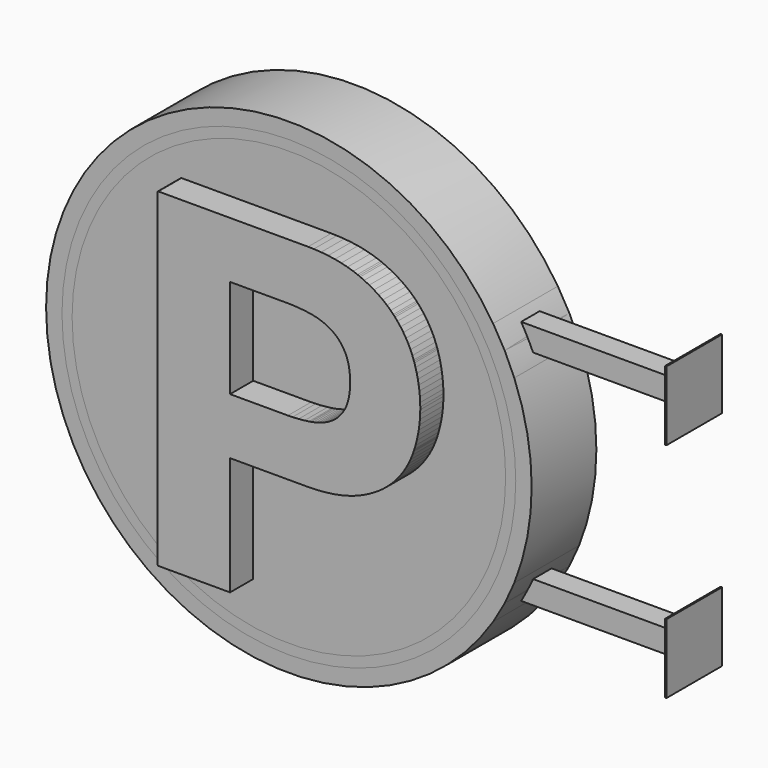
from build123d import *

# Parameters (mm, degrees)
F0_R           = 1066.8
F1_DEPTH       = 355.6
F2_W           = 101.6
F2_H           = 101.6
F3_DEPTH       = 1600.2
F4_W           = 304.8
F4_H           = 304.8
F5_DEPTH       = 6.35
F7_T           = -2.54
F6_R           = 1066.8
F6_R_2         = 996.95
F8_DEPTH       = 355.6
F6_R_3         = 952.5
F9_DEPTH       = 355.6
F10_DEPTH      = 355.6
F12_DEPTH      = 177.8
F14_DEPTH      = 177.8
F15_W          = 2177.1864
F15_H          = 50.8
F15_W_2        = 2169.7696
F16_DEPTH      = 1039.3653768907
F16_DEPTH_BACK = 1094.2366231093
F17_R          = 19.05
F18_DEPTH      = 50.8
F19_R          = 19.05
F20_DEPTH      = 50.8


with BuildPart() as f1:
    # F0 (on Front) → F1 (new body)
    with BuildSketch(Plane.XZ):
        with Locations((-32.1771800518, 27.4356231093)):
            Circle(F0_R)
    extrude(amount=-F1_DEPTH)

    # F2 (on Right) → F3 (join)
    with BuildSketch(Plane.YZ):
        with Locations((176.4581170305, 516.3856603622)):
            Rectangle(F2_W, F2_H)
        with Locations((176.4581170305, -461.5143396378)):
            Rectangle(F2_W, F2_H)
    extrude(amount=F3_DEPTH)

    # F4 (on face) → F5 (join)
    with BuildSketch(Plane.YZ.offset(1600.2)):
        with Locations((177.8, 516.3856603622)):
            Rectangle(F4_W, F4_H)
        with Locations((177.8, -461.5143396378)):
            Rectangle(F4_W, F4_H)
    extrude(amount=F5_DEPTH)

    # F7
    f7_openings = [f1.faces().sort_by_distance(p)[0] for p in [
        (-32.17718, 355.6, 27.435623),
        (-32.17718, 0, 27.435623),
    ]]
    offset(amount=F7_T, openings=f7_openings, kind=Kind.INTERSECTION)


with BuildPart() as f8:
    # F6 (on face) → F8 (new body)
    with BuildSketch(Plane(origin=(0, 355.6, 0), x_dir=(-1, 0, 0), z_dir=(0, 1, 0))):
        with Locations((32.1771800518, 27.4356231093)):
            Circle(F6_R)
        with Locations((32.1771800518, 27.4356231093)):
            Circle(F6_R_2, mode=Mode.SUBTRACT)
    extrude(amount=-F8_DEPTH)


with BuildPart() as f9:
    # F6 (on face) → F9 (new body)
    with BuildSketch(Plane(origin=(0, 355.6, 0), x_dir=(-1, 0, 0), z_dir=(0, 1, 0))):
        with Locations((32.1771800518, 27.4356231093)):
            Circle(F6_R_2)
        with Locations((32.1771800518, 27.4356231093)):
            Circle(F6_R_3, mode=Mode.SUBTRACT)
    extrude(amount=-F9_DEPTH)


with BuildPart() as f10:
    # F6 (on face) → F10 (new body)
    with BuildSketch(Plane(origin=(0, 355.6, 0), x_dir=(-1, 0, 0), z_dir=(0, 1, 0))):
        with Locations((32.1771800518, 27.4356231093)):
            Circle(F6_R_3)
    extrude(amount=-F10_DEPTH)


with BuildPart() as f12:
    # F11 (on face) → F12 (new body)
    with BuildSketch(Plane(origin=(0, 355.6, 0), x_dir=(-1, 0, 0), z_dir=(0, 1, 0))):
        with BuildLine():
            Line((261.0398864211, 749.6935208507), (252.7036064211, 749.6935208507))
            Line((252.7036064211, 749.6935208507), (-397.6817435459, 749.6935208507))
            ThreePointArc((-397.6817435459, 749.6935208507), (-399.1221131649, 748.8353613634), (-400.5607715789, 747.974336211))
            Line((-400.5607715789, 747.974336211), (-400.5607715789, -696.5317205232))
            ThreePointArc((-400.5607715789, -696.5317205232), (-398.6099594906, -697.6983275105), (-396.6560060392, -698.8596653493))
            Line((-396.6560060392, -698.8596653493), (-82.0429935789, -698.8596653493))
            Line((-82.0429935789, -698.8596653493), (-82.0429935789, -179.4918191493))
            Line((-82.0429935789, -179.4918191493), (252.7036064211, -179.4918191493))
            Line((252.7036064211, -179.4918191493), (261.0398864211, -179.4918191493))
            Line((261.0398864211, -179.4918191493), (286.0436464211, -178.8720591493))
            Line((286.0436464211, -178.8720591493), (318.1187664211, -177.0178591493))
            Line((318.1187664211, -177.0178591493), (348.9315064211, -173.9266791493))
            Line((348.9315064211, -173.9266791493), (378.4767864211, -169.5985191493))
            Line((378.4767864211, -169.5985191493), (406.7520664211, -164.0359191493))
            Line((406.7520664211, -164.0359191493), (433.7598864211, -157.2363391493))
            Line((433.7598864211, -157.2363391493), (459.5053264211, -149.2023191493))
            Line((459.5053264211, -149.2023191493), (477.9406464211, -142.4382991493))
            Line((477.9406464211, -142.4382991493), (483.9858464211, -139.9313191493))
            Line((483.9858464211, -139.9313191493), (489.8583264211, -137.4929191493))
            Line((489.8583264211, -137.4929191493), (507.2649464211, -129.6443191493))
            Line((507.2649464211, -129.6443191493), (529.4366064211, -118.5648391493))
            Line((529.4366064211, -118.5648391493), (550.5008264211, -106.6979591493))
            Line((550.5008264211, -106.6979591493), (570.4550664211, -94.0335191493))
            Line((570.4550664211, -94.0335191493), (589.2993264211, -80.5791391493))
            Line((589.2993264211, -80.5791391493), (607.0361464211, -66.3297391493))
            Line((607.0361464211, -66.3297391493), (623.6680664211, -51.2853191493))
            Line((623.6680664211, -51.2853191493), (635.4333464211, -39.5200391493))
            Line((635.4333464211, -39.5200391493), (639.1900064211, -35.4433391493))
            Line((639.1900064211, -35.4433391493), (642.9034864211, -31.4123591493))
            Line((642.9034864211, -31.4123591493), (653.6349864211, -18.9180991493))
            Line((653.6349864211, -18.9180991493), (667.0741264211, -1.7857991493))
            Line((667.0741264211, -1.7857991493), (679.5023464211, 15.9484808507))
            Line((679.5023464211, 15.9484808507), (690.9145664211, 34.2847408507))
            Line((690.9145664211, 34.2847408507), (701.3133264211, 53.2255208507))
            Line((701.3133264211, 53.2255208507), (710.6960864211, 72.7708208507))
            Line((710.6960864211, 72.7708208507), (719.0679264211, 92.9181008507))
            Line((719.0679264211, 92.9181008507), (724.7194264211, 108.4400408507))
            Line((724.7194264211, 108.4400408507), (726.4237664211, 113.6724408507))
            Line((726.4237664211, 113.6724408507), (728.1281064211, 118.9099208507))
            Line((728.1281064211, 118.9099208507), (732.8448864211, 134.7595208507))
            Line((732.8448864211, 134.7595208507), (738.4074864211, 155.9482008507))
            Line((738.4074864211, 155.9482008507), (743.1141064211, 177.2308608507))
            Line((743.1141064211, 177.2308608507), (746.9672864211, 198.6125808507))
            Line((746.9672864211, 198.6125808507), (749.9619464211, 220.0933608507))
            Line((749.9619464211, 220.0933608507), (752.1031664211, 241.6655808507))
            Line((752.1031664211, 241.6655808507), (753.3833264211, 263.3343208507))
            Line((753.3833264211, 263.3343208507), (753.8125864211, 279.6614408507))
            Line((753.8125864211, 279.6614408507), (753.8125864211, 285.0995808507))
            Line((753.8125864211, 285.0995808507), (753.8125864211, 290.6520208507))
            Line((753.8125864211, 290.6520208507), (753.3833264211, 307.3169608507))
            Line((753.3833264211, 307.3169608507), (752.1031664211, 329.3463808507))
            Line((752.1031664211, 329.3463808507), (749.9619464211, 351.1853008507))
            Line((749.9619464211, 351.1853008507), (746.9672864211, 372.8311808507))
            Line((746.9672864211, 372.8311808507), (743.1141064211, 394.2941808507))
            Line((743.1141064211, 394.2941808507), (738.4074864211, 415.5641408507))
            Line((738.4074864211, 415.5641408507), (732.8448864211, 436.6486808507))
            Line((732.8448864211, 436.6486808507), (728.1306464211, 452.3560408507))
            Line((728.1306464211, 452.3560408507), (726.4237664211, 457.5452608507))
            Line((726.4237664211, 457.5452608507), (724.7194264211, 462.7167008507))
            Line((724.7194264211, 462.7167008507), (719.0679264211, 478.0506808507))
            Line((719.0679264211, 478.0506808507), (710.6960864211, 497.9871408507))
            Line((710.6960864211, 497.9871408507), (701.3133264211, 517.3546408507))
            Line((701.3133264211, 517.3546408507), (690.9145664211, 536.1506408507))
            Line((690.9145664211, 536.1506408507), (679.5023464211, 554.3776808507))
            Line((679.5023464211, 554.3776808507), (667.0741264211, 572.0357608507))
            Line((667.0741264211, 572.0357608507), (653.6349864211, 589.1274208507))
            Line((653.6349864211, 589.1274208507), (642.9034864211, 601.6166008507))
            Line((642.9034864211, 601.6166008507), (639.1900064211, 605.6475808507))
            Line((639.1900064211, 605.6475808507), (635.4333464211, 609.7192008507))
            Line((635.4333464211, 609.7192008507), (623.6680664211, 621.4768608507))
            Line((623.6680664211, 621.4768608507), (607.0361464211, 636.5187408507))
            Line((607.0361464211, 636.5187408507), (589.2993264211, 650.7681408507))
            Line((589.2993264211, 650.7681408507), (570.4550664211, 664.2276008507))
            Line((570.4550664211, 664.2276008507), (550.5008264211, 676.8920408507))
            Line((550.5008264211, 676.8920408507), (529.4366064211, 688.7614608507))
            Line((529.4366064211, 688.7614608507), (507.2649464211, 699.8460208507))
            Line((507.2649464211, 699.8460208507), (489.8583264211, 707.6971608507))
            Line((489.8583264211, 707.6971608507), (483.9858464211, 710.1330208507))
            Line((483.9858464211, 710.1330208507), (477.9406464211, 712.6374608507))
            Line((477.9406464211, 712.6374608507), (459.5053264211, 719.4040208507))
            Line((459.5053264211, 719.4040208507), (433.7598864211, 727.4405808507))
            Line((433.7598864211, 727.4405808507), (406.7520664211, 734.2427008507))
            Line((406.7520664211, 734.2427008507), (378.4767864211, 739.8027608507))
            Line((378.4767864211, 739.8027608507), (348.9315064211, 744.1309208507))
            Line((348.9315064211, 744.1309208507), (318.1187664211, 747.2221008507))
            Line((318.1187664211, 747.2221008507), (286.0436464211, 749.0763008507))
            Line((286.0436464211, 749.0763008507), (261.0398864211, 749.6935208507))
        make_face()
        Polygon((172.2491064211, 68.0261008507), (165.4698464211, 68.0261008507), (-82.0429935789, 68.0261008507), (-82.0429935789, 502.1806808507), (165.4698464211, 502.1806808507), (172.2491064211, 502.1806808507), (192.6021264211, 501.6726808507), (219.2238664211, 500.1461408507), (245.3452264211, 497.6061408507), (264.5806464211, 495.0813808507), (270.9662064211, 494.0603008507), (274.0954864211, 493.5599208507), (283.4477664211, 491.7920808507), (295.5508664211, 489.0488808507), (307.2780464211, 485.8281608507), (318.6267664211, 482.1324608507), (329.5995664211, 477.9668608507), (340.1862864211, 473.3237408507), (350.3996264211, 468.2081808507), (357.8113464211, 464.0857608507), (360.2294264211, 462.6201808507), (362.6246464211, 461.1723808507), (369.6248864211, 456.4860808507), (378.5428264211, 449.7449208507), (386.9883264211, 442.4068608507), (394.9613864211, 434.4693608507), (402.4620064211, 425.9248008507), (409.4851064211, 416.7808008507), (416.0357664211, 407.0348208507), (420.6712664211, 399.3157608507), (422.1114464211, 396.6843208507), (423.5897264211, 393.9817608507), (427.5724464211, 385.6200808507), (432.3070064211, 373.7328808507), (436.3176664211, 361.0151008507), (439.5993464211, 347.4794408507), (442.1520464211, 333.1157408507), (443.9757664211, 317.9341608507), (445.0730464211, 301.9270808507), (445.4413464211, 289.3058208507), (445.4413464211, 285.0995808507), (445.4413464211, 280.8908008507), (445.0730464211, 268.2644608507), (443.9757664211, 252.2573808507), (442.1520464211, 237.0732608507), (439.5993464211, 222.7121008507), (436.3176664211, 209.1789808507), (432.3070064211, 196.4688208507), (427.5724464211, 184.5790808507), (423.5897264211, 176.2224808507), (422.1114464211, 173.5173808507), (420.6712664211, 170.8834008507), (416.0357664211, 163.1668808507), (409.4851064211, 153.4183608507), (402.4620064211, 144.2718208507), (394.9613864211, 135.7272608507), (386.9883264211, 127.7846808507), (378.5428264211, 120.4440808507), (369.6248864211, 113.7130808507), (362.6246464211, 109.0344008507), (360.2294264211, 107.5866008507), (357.8113464211, 106.1210208507), (350.3996264211, 101.9859008507), (340.1862864211, 96.8601808507), (329.5995664211, 92.2145208507), (318.6267664211, 88.0463808507), (307.2780464211, 84.3506808507), (295.5508664211, 81.1350408507), (283.4477664211, 78.3969208507), (274.0954864211, 76.6367008507), (270.9662064211, 76.1388608507), (264.5806464211, 75.1152408507), (245.3452264211, 72.5828608507), (219.2238664211, 70.0504808507), (192.6021264211, 68.5290208507), align=None, mode=Mode.SUBTRACT)
    extrude(amount=F12_DEPTH)


with BuildPart() as f14:
    # F13 (on face) → F14 (new body)
    with BuildSketch(Plane.XZ):
        with BuildLine():
            Line((194.7979516964, 755.5110763196), (186.4616716964, 755.5110763196))
            Line((186.4616716964, 755.5110763196), (-463.9236782706, 755.5110763196))
            ThreePointArc((-463.9236782706, 755.5110763196), (-465.3640478896, 754.6529168323), (-466.8027063036, 753.79189168))
            Line((-466.8027063036, 753.79189168), (-466.8027063036, -690.7141650542))
            ThreePointArc((-466.8027063036, -690.7141650542), (-464.8518942154, -691.8807720415), (-462.8979407639, -693.0421098804))
            Line((-462.8979407639, -693.0421098804), (-148.2849283036, -693.0421098804))
            Line((-148.2849283036, -693.0421098804), (-148.2849283036, -173.6742636804))
            Line((-148.2849283036, -173.6742636804), (186.4616716964, -173.6742636804))
            Line((186.4616716964, -173.6742636804), (194.7979516964, -173.6742636804))
            Line((194.7979516964, -173.6742636804), (219.8017116964, -173.0545036804))
            Line((219.8017116964, -173.0545036804), (251.8768316964, -171.2003036804))
            Line((251.8768316964, -171.2003036804), (282.6895716964, -168.1091236804))
            Line((282.6895716964, -168.1091236804), (312.2348516964, -163.7809636804))
            Line((312.2348516964, -163.7809636804), (340.5101316964, -158.2183636804))
            Line((340.5101316964, -158.2183636804), (367.5179516964, -151.4187836804))
            Line((367.5179516964, -151.4187836804), (393.2633916964, -143.3847636804))
            Line((393.2633916964, -143.3847636804), (411.6987116964, -136.6207436804))
            Line((411.6987116964, -136.6207436804), (417.7439116964, -134.1137636804))
            Line((417.7439116964, -134.1137636804), (423.6163916964, -131.6753636804))
            Line((423.6163916964, -131.6753636804), (441.0230116964, -123.8267636804))
            Line((441.0230116964, -123.8267636804), (463.1946716964, -112.7472836804))
            Line((463.1946716964, -112.7472836804), (484.2588916964, -100.8804036804))
            Line((484.2588916964, -100.8804036804), (504.2131316964, -88.2159636804))
            Line((504.2131316964, -88.2159636804), (523.0573916964, -74.7615836804))
            Line((523.0573916964, -74.7615836804), (540.7942116964, -60.5121836804))
            Line((540.7942116964, -60.5121836804), (557.4261316964, -45.4677636804))
            Line((557.4261316964, -45.4677636804), (569.1914116964, -33.7024836804))
            Line((569.1914116964, -33.7024836804), (572.9480716964, -29.6257836804))
            Line((572.9480716964, -29.6257836804), (576.6615516964, -25.5948036804))
            Line((576.6615516964, -25.5948036804), (587.3930516964, -13.1005436804))
            Line((587.3930516964, -13.1005436804), (600.8321916964, 4.0317563196))
            Line((600.8321916964, 4.0317563196), (613.2604116964, 21.7660363196))
            Line((613.2604116964, 21.7660363196), (624.6726316964, 40.1022963196))
            Line((624.6726316964, 40.1022963196), (635.0713916964, 59.0430763196))
            Line((635.0713916964, 59.0430763196), (644.4541516964, 78.5883763196))
            Line((644.4541516964, 78.5883763196), (652.8259916964, 98.7356563196))
            Line((652.8259916964, 98.7356563196), (658.4774916964, 114.2575963196))
            Line((658.4774916964, 114.2575963196), (660.1818316964, 119.4899963196))
            Line((660.1818316964, 119.4899963196), (661.8861716964, 124.7274763196))
            Line((661.8861716964, 124.7274763196), (666.6029516964, 140.5770763196))
            Line((666.6029516964, 140.5770763196), (672.1655516964, 161.7657563196))
            Line((672.1655516964, 161.7657563196), (676.8721716964, 183.0484163196))
            Line((676.8721716964, 183.0484163196), (680.7253516964, 204.4301363196))
            Line((680.7253516964, 204.4301363196), (683.7200116964, 225.9109163196))
            Line((683.7200116964, 225.9109163196), (685.8612316964, 247.4831363196))
            Line((685.8612316964, 247.4831363196), (687.1413916964, 269.1518763196))
            Line((687.1413916964, 269.1518763196), (687.5706516964, 285.4789963196))
            Line((687.5706516964, 285.4789963196), (687.5706516964, 290.9171363196))
            Line((687.5706516964, 290.9171363196), (687.5706516964, 296.4695763196))
            Line((687.5706516964, 296.4695763196), (687.1413916964, 313.1345163196))
            Line((687.1413916964, 313.1345163196), (685.8612316964, 335.1639363196))
            Line((685.8612316964, 335.1639363196), (683.7200116964, 357.0028563196))
            Line((683.7200116964, 357.0028563196), (680.7253516964, 378.6487363196))
            Line((680.7253516964, 378.6487363196), (676.8721716964, 400.1117363196))
            Line((676.8721716964, 400.1117363196), (672.1655516964, 421.3816963196))
            Line((672.1655516964, 421.3816963196), (666.6029516964, 442.4662363196))
            Line((666.6029516964, 442.4662363196), (661.8887116964, 458.1735963196))
            Line((661.8887116964, 458.1735963196), (660.1818316964, 463.3628163196))
            Line((660.1818316964, 463.3628163196), (658.4774916964, 468.5342563196))
            Line((658.4774916964, 468.5342563196), (652.8259916964, 483.8682363196))
            Line((652.8259916964, 483.8682363196), (644.4541516964, 503.8046963196))
            Line((644.4541516964, 503.8046963196), (635.0713916964, 523.1721963196))
            Line((635.0713916964, 523.1721963196), (624.6726316964, 541.9681963196))
            Line((624.6726316964, 541.9681963196), (613.2604116964, 560.1952363196))
            Line((613.2604116964, 560.1952363196), (600.8321916964, 577.8533163196))
            Line((600.8321916964, 577.8533163196), (587.3930516964, 594.9449763196))
            Line((587.3930516964, 594.9449763196), (576.6615516964, 607.4341563196))
            Line((576.6615516964, 607.4341563196), (572.9480716964, 611.4651363196))
            Line((572.9480716964, 611.4651363196), (569.1914116964, 615.5367563196))
            Line((569.1914116964, 615.5367563196), (557.4261316964, 627.2944163196))
            Line((557.4261316964, 627.2944163196), (540.7942116964, 642.3362963196))
            Line((540.7942116964, 642.3362963196), (523.0573916964, 656.5856963196))
            Line((523.0573916964, 656.5856963196), (504.2131316964, 670.0451563196))
            Line((504.2131316964, 670.0451563196), (484.2588916964, 682.7095963196))
            Line((484.2588916964, 682.7095963196), (463.1946716964, 694.5790163196))
            Line((463.1946716964, 694.5790163196), (441.0230116964, 705.6635763196))
            Line((441.0230116964, 705.6635763196), (423.6163916964, 713.5147163196))
            Line((423.6163916964, 713.5147163196), (417.7439116964, 715.9505763196))
            Line((417.7439116964, 715.9505763196), (411.6987116964, 718.4550163196))
            Line((411.6987116964, 718.4550163196), (393.2633916964, 725.2215763196))
            Line((393.2633916964, 725.2215763196), (367.5179516964, 733.2581363196))
            Line((367.5179516964, 733.2581363196), (340.5101316964, 740.0602563196))
            Line((340.5101316964, 740.0602563196), (312.2348516964, 745.6203163196))
            Line((312.2348516964, 745.6203163196), (282.6895716964, 749.9484763196))
            Line((282.6895716964, 749.9484763196), (251.8768316964, 753.0396563196))
            Line((251.8768316964, 753.0396563196), (219.8017116964, 754.8938563196))
            Line((219.8017116964, 754.8938563196), (194.7979516964, 755.5110763196))
        make_face()
        Polygon((106.0071716964, 73.8436563196), (99.2279116964, 73.8436563196), (-148.2849283036, 73.8436563196), (-148.2849283036, 507.9982363196), (99.2279116964, 507.9982363196), (106.0071716964, 507.9982363196), (126.3601916964, 507.4902363196), (152.9819316964, 505.9636963196), (179.1032916964, 503.4236963196), (198.3387116964, 500.8989363196), (204.7242716964, 499.8778563196), (207.8535516964, 499.3774763196), (217.2058316964, 497.6096363196), (229.3089316964, 494.8664363196), (241.0361116964, 491.6457163196), (252.3848316964, 487.9500163196), (263.3576316964, 483.7844163196), (273.9443516964, 479.1412963196), (284.1576916964, 474.0257363196), (291.5694116964, 469.9033163196), (293.9874916964, 468.4377363196), (296.3827116964, 466.9899363196), (303.3829516964, 462.3036363196), (312.3008916964, 455.5624763196), (320.7463916964, 448.2244163196), (328.7194516964, 440.2869163196), (336.2200716964, 431.7423563196), (343.2431716964, 422.5983563196), (349.7938316964, 412.8523763196), (354.4293316964, 405.1333163196), (355.8695116964, 402.5018763196), (357.3477916964, 399.7993163196), (361.3305116964, 391.4376363196), (366.0650716964, 379.5504363196), (370.0757316964, 366.8326563196), (373.3574116964, 353.2969963196), (375.9101116964, 338.9332963196), (377.7338316964, 323.7517163196), (378.8311116964, 307.7446363196), (379.1994116964, 295.1233763196), (379.1994116964, 290.9171363196), (379.1994116964, 286.7083563196), (378.8311116964, 274.0820163196), (377.7338316964, 258.0749363196), (375.9101116964, 242.8908163196), (373.3574116964, 228.5296563196), (370.0757316964, 214.9965363196), (366.0650716964, 202.2863763196), (361.3305116964, 190.3966363196), (357.3477916964, 182.0400363196), (355.8695116964, 179.3349363196), (354.4293316964, 176.7009563196), (349.7938316964, 168.9844363196), (343.2431716964, 159.2359163196), (336.2200716964, 150.0893763196), (328.7194516964, 141.5448163196), (320.7463916964, 133.6022363196), (312.3008916964, 126.2616363196), (303.3829516964, 119.5306363196), (296.3827116964, 114.8519563196), (293.9874916964, 113.4041563196), (291.5694116964, 111.9385763196), (284.1576916964, 107.8034563196), (273.9443516964, 102.6777363196), (263.3576316964, 98.0320763196), (252.3848316964, 93.8639363196), (241.0361116964, 90.1682363196), (229.3089316964, 86.9525963196), (217.2058316964, 84.2144763196), (207.8535516964, 82.4542563196), (204.7242716964, 81.9564163196), (198.3387116964, 80.9327963196), (179.1032916964, 78.4004163196), (152.9819316964, 75.8680363196), (126.3601916964, 74.3465763196), align=None, mode=Mode.SUBTRACT)
    extrude(amount=F14_DEPTH)


with BuildPart() as f16_tool:
    # F15 (on Top) → F16 (new body, two sides)
    with BuildSketch(Plane.XY) as f16_sk:
        with Locations((-19.0330298264, -25.1949188373)):
            Rectangle(F15_W, F15_H)
        with Locations((-16.5272578766, 380.9530011654)):
            Rectangle(F15_W_2, F15_H)
    extrude(amount=-F16_DEPTH)
    extrude(f16_sk.sketch, amount=F16_DEPTH_BACK)


with BuildPart() as f1_1:
    add(f1.part)

    # F16: cut by f16_tool
    add(f16_tool.part, mode=Mode.SUBTRACT)


with BuildPart() as f8_1:
    add(f8.part)

    # F16: cut by f16_tool
    add(f16_tool.part, mode=Mode.SUBTRACT)


with BuildPart() as f9_1:
    add(f9.part)

    # F16: cut by f16_tool
    add(f16_tool.part, mode=Mode.SUBTRACT)


with BuildPart() as f10_1:
    add(f10.part)

    # F16: cut by f16_tool
    add(f16_tool.part, mode=Mode.SUBTRACT)


with BuildPart() as f12_1:
    add(f12.part)

    # F16: cut by f16_tool
    add(f16_tool.part, mode=Mode.SUBTRACT)


with BuildPart() as f14_1:
    add(f14.part)

    # F16: cut by f16_tool
    add(f16_tool.part, mode=Mode.SUBTRACT)


with BuildPart() as f18:
    # F17 (on face) → F18 (new body)
    with BuildSketch(Plane(origin=(0, 355.6, 0), x_dir=(-1, 0, 0), z_dir=(0, 1, 0))):
        with Locations((-255.8010220528, 641.9009566307)):
            Circle(F17_R)
    extrude(amount=F18_DEPTH)


with BuildPart() as f18b:
    # F17 (on face) → F18, piece 2 (new body)
    with BuildSketch(Plane(origin=(0, 355.6, 0), x_dir=(-1, 0, 0), z_dir=(0, 1, 0))):
        with Locations((-255.8010220528, -53.1499534845)):
            Circle(F17_R)
    extrude(amount=F18_DEPTH)


with BuildPart() as f18c:
    # F17 (on face) → F18, piece 3 (new body)
    with BuildSketch(Plane(origin=(0, 355.6, 0), x_dir=(-1, 0, 0), z_dir=(0, 1, 0))):
        with Locations((-255.8010220528, -593.0734872818)):
            Circle(F17_R)
    extrude(amount=F18_DEPTH)


with BuildPart() as f18d:
    # F17 (on face) → F18, piece 4 (new body)
    with BuildSketch(Plane(origin=(0, 355.6, 0), x_dir=(-1, 0, 0), z_dir=(0, 1, 0))):
        with Locations((298.2250452042, 641.9009566307)):
            Circle(F17_R)
    extrude(amount=F18_DEPTH)


with BuildPart() as f18e:
    # F17 (on face) → F18, piece 5 (new body)
    with BuildSketch(Plane(origin=(0, 355.6, 0), x_dir=(-1, 0, 0), z_dir=(0, 1, 0))):
        with Locations((298.2250452042, -53.1499534845)):
            Circle(F17_R)
    extrude(amount=F18_DEPTH)


with BuildPart() as f18f:
    # F17 (on face) → F18, piece 6 (new body)
    with BuildSketch(Plane(origin=(0, 355.6, 0), x_dir=(-1, 0, 0), z_dir=(0, 1, 0))):
        with Locations((594.3771600723, 295.3828275204)):
            Circle(F17_R)
    extrude(amount=F18_DEPTH)


with BuildPart() as f20:
    # F19 (on face) → F20 (new body)
    with BuildSketch(Plane.XZ.offset(-0.2050811627)):
        with Locations((-312.2674723466, 641.9785718123)):
            Circle(F19_R)
    extrude(amount=F20_DEPTH)


with BuildPart() as f20b:
    # F19 (on face) → F20, piece 2 (new body)
    with BuildSketch(Plane.XZ.offset(-0.2050811627)):
        with Locations((-312.2674723466, -53.0723383029)):
            Circle(F19_R)
    extrude(amount=F20_DEPTH)


with BuildPart() as f20c:
    # F19 (on face) → F20, piece 3 (new body)
    with BuildSketch(Plane.XZ.offset(-0.2050811627)):
        with Locations((-312.2674723466, -592.9958721002)):
            Circle(F19_R)
    extrude(amount=F20_DEPTH)


with BuildPart() as f20d:
    # F19 (on face) → F20, piece 4 (new body)
    with BuildSketch(Plane.XZ.offset(-0.2050811627)):
        with Locations((241.7585949103, 641.9785718123)):
            Circle(F19_R)
    extrude(amount=F20_DEPTH)


with BuildPart() as f20e:
    # F19 (on face) → F20, piece 5 (new body)
    with BuildSketch(Plane.XZ.offset(-0.2050811627)):
        with Locations((241.7585949103, -53.0723383029)):
            Circle(F19_R)
    extrude(amount=F20_DEPTH)


with BuildPart() as f20f:
    # F19 (on face) → F20, piece 6 (new body)
    with BuildSketch(Plane.XZ.offset(-0.2050811627)):
        with Locations((537.9107097785, 295.460442702)):
            Circle(F19_R)
    extrude(amount=F20_DEPTH)


solid = Compound([f1_1.part, f8_1.part, f9_1.part, f10_1.part, f12_1.part, f14_1.part, f18.part, f18b.part, f18c.part, f18d.part, f18e.part, f18f.part, f20.part, f20b.part, f20c.part, f20d.part, f20e.part, f20f.part])
